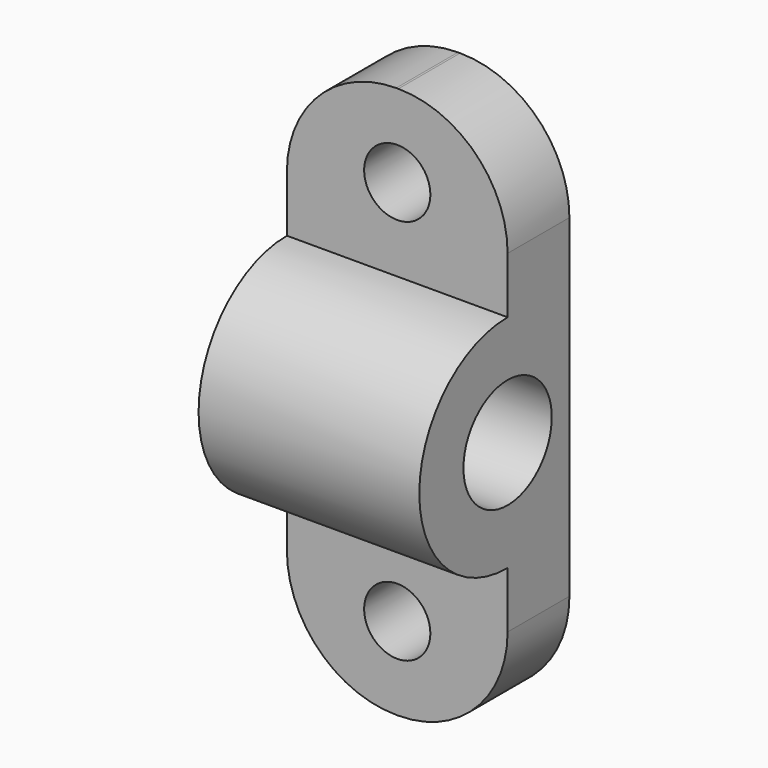
from build123d import *

# Parameters (mm, degrees)
PAD030_DEPTH             = 20
SKETCH021_R              = 5
POCKET001006_DEPTH       = 20.001
FILLET_R                 = 9.9
SKETCH024_R              = 3
POCKET002_DEPTH          = 7.001
CLONE076_ROLL_ANGLE      = 90
CLONE076_PLACEMENT_ANGLE = -90


with BuildPart() as part:
    # Sketch020 → Pad030 (new body)
    with BuildSketch(Plane.XY):
        with BuildLine():
            Line((18, 0), (25, 0))
            Line((25, 0), (25, 15))
            ThreePointArc((25, 15), (35, 25), (25, 35))
            Line((25, 35), (25, 50))
            Line((25, 50), (18, 50))
            Line((18, 50), (18, 0))
        make_face()
    extrude(amount=PAD030_DEPTH)

    # Sketch021 → Pocket001006 (cut, through all)
    with BuildSketch(Plane(origin=(0, 0, 0), x_dir=(1, 0, 0), z_dir=(0, 0, -1))):
        with Locations((25, -25)):
            Circle(SKETCH021_R)
    extrude(amount=-POCKET001006_DEPTH, mode=Mode.SUBTRACT)

    # Fillet
    fillet_edges = [part.edges().sort_by_distance(p)[0] for p in [
        (21.5, 0, 0),
        (21.5, 50, 0),
        (21.5, 50, 20),
        (21.5, 0, 20),
    ]]
    fillet(fillet_edges, radius=FILLET_R)

    # Sketch024 → Pocket002 (cut, through all)
    with BuildSketch(Plane.YZ.offset(25)):
        with Locations((7.5, 10)):
            Circle(SKETCH024_R)
        with Locations((42.5, 10)):
            Circle(SKETCH024_R)
    extrude(amount=-POCKET002_DEPTH, mode=Mode.SUBTRACT)


with BuildPart() as part_1:
    # Clone076 roll: moved
    add(part.part.rotate(Axis((0, 0, 0), (1, 0, 0)), CLONE076_ROLL_ANGLE))


with BuildPart() as part_2:
    # Clone076 placement: moved
    add(part_1.part.moved(Location((120.75, 1500, 0))).rotate(Axis((120.75, 1500, 0), (0, 0, 1)), CLONE076_PLACEMENT_ANGLE))


with BuildPart() as part_3:
    # Clone081 placement: moved
    add(part_2.part.moved(Location((559.25, 0, 0))))


solid = part_3.part
